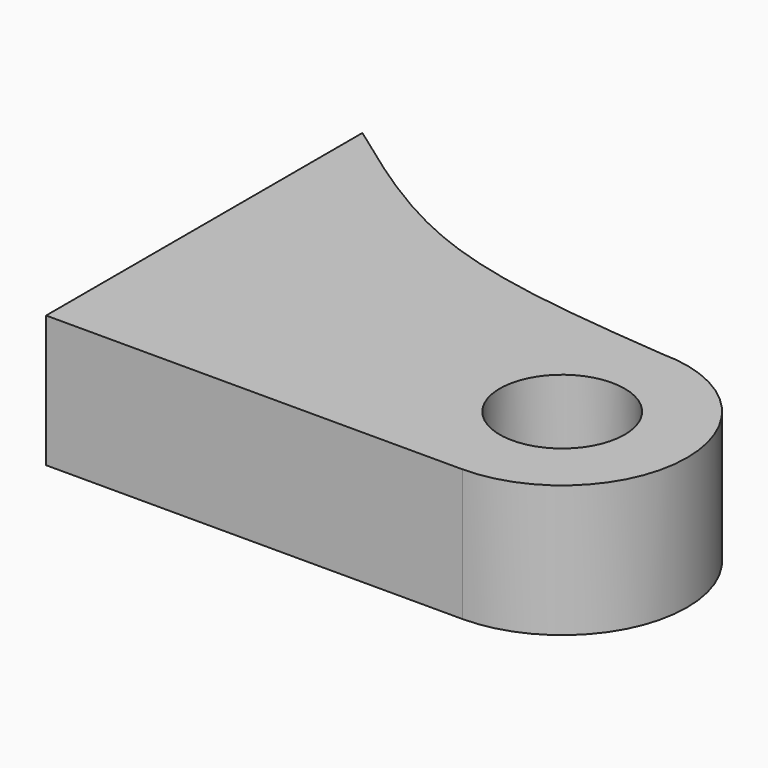
from build123d import *

# Parameters (mm, degrees)
F1_DEPTH      = 19
F2_R          = 9
F3_DEPTH      = 25.4
F3_DEPTH_BACK = 10


with BuildPart() as f1:
    # F0 (on Top) → F1 (new body)
    with BuildSketch(Plane.XY):
        with BuildLine():
            Line((-60, -18), (0, -18))
            ThreePointArc((0, -18), (18, 0), (0, 18))
            add(Edge.make_bspline(
                [(-60, 39), (-52.1128287226, 33.2353114055), (-35.5753727915, 21.1481789934), (-12.2177334752, 19.0811864741), (0, 18)],
                knots=[0, 0, 0, 0, 0.4769277276, 1, 1, 1, 1], degree=3))
            Line((-60, 39), (-60, -18))
        make_face()
    extrude(amount=F1_DEPTH)

    # F2 (on face) → F3 (cut, two sides)
    with BuildSketch(Plane.XY.offset(19)) as f3_sk:
        Circle(F2_R)
    extrude(amount=F3_DEPTH, mode=Mode.SUBTRACT)
    extrude(f3_sk.sketch, amount=-F3_DEPTH_BACK, mode=Mode.SUBTRACT)


solid = f1.part
